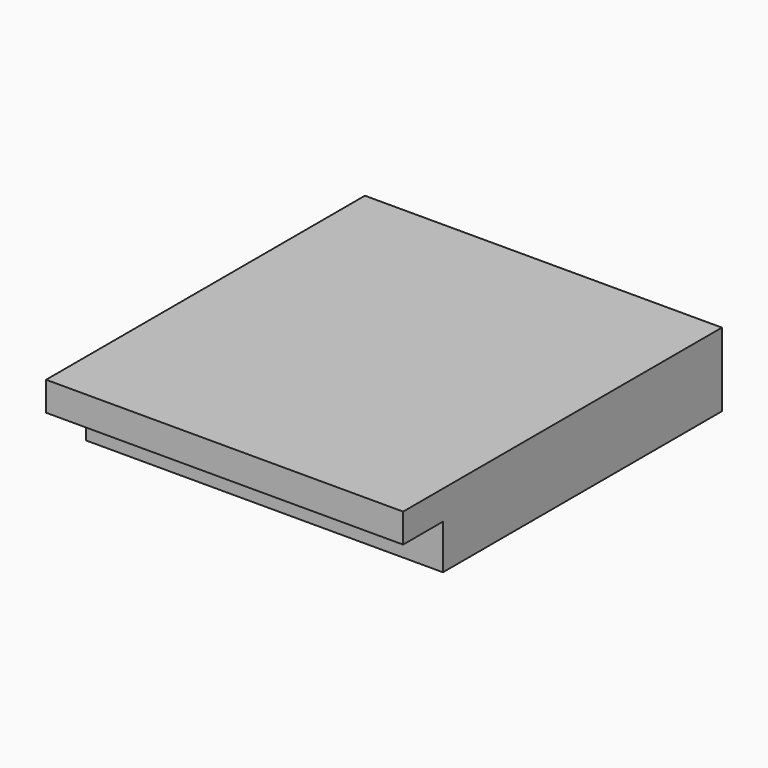
from build123d import *

# Parameters (mm, degrees)
F0_W     = 1092.2
F0_H     = 1219.2
F1_DEPTH = 225.425
F2_W     = 152.4
F2_H     = 136.525
F3_DEPTH = 1092.2


with BuildPart() as f1:
    # F0 (on Top) → F1 (new body)
    with BuildSketch(Plane.XY):
        with Locations((0, -609.6)):
            Rectangle(F0_W, F0_H)
    extrude(amount=-F1_DEPTH)

    # F2 (on face) → F3 (cut, through all)
    with BuildSketch(Plane.YZ.offset(546.1)):
        with Locations((-1143, -157.1625)):
            Rectangle(F2_W, F2_H)
    extrude(amount=-F3_DEPTH, mode=Mode.SUBTRACT)


solid = f1.part
